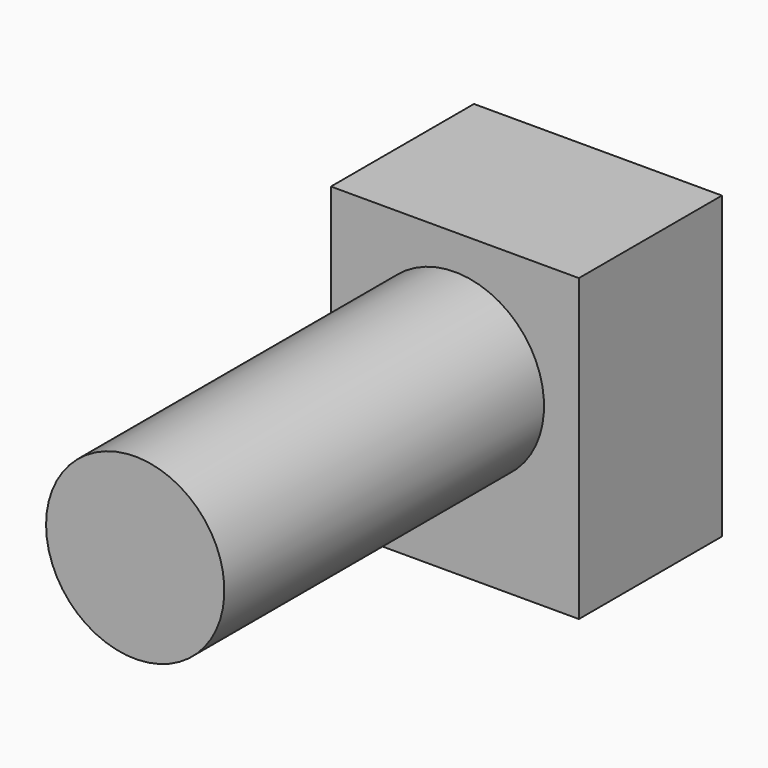
from build123d import *

# Parameters (mm, degrees)
F0_W     = 9.5
F0_H     = 6.85
F1_DEPTH = 11.5
F2_R     = 3.415
F3_DEPTH = 22.16


with BuildPart() as f1:
    # F0 (on Top) → F1 (new body)
    with BuildSketch(Plane.XY):
        with Locations((-7.069271, 7.49172)):
            Rectangle(F0_W, F0_H)
    extrude(amount=F1_DEPTH)

    # F2 (on face) → F3 (join)
    with BuildSketch(Plane(origin=(0, 10.91672, 0), x_dir=(-1, 0, 0), z_dir=(0, 1, 0))):
        with Locations((7.069271, 6.75)):
            Circle(F2_R)
    extrude(amount=-F3_DEPTH)


solid = f1.part
